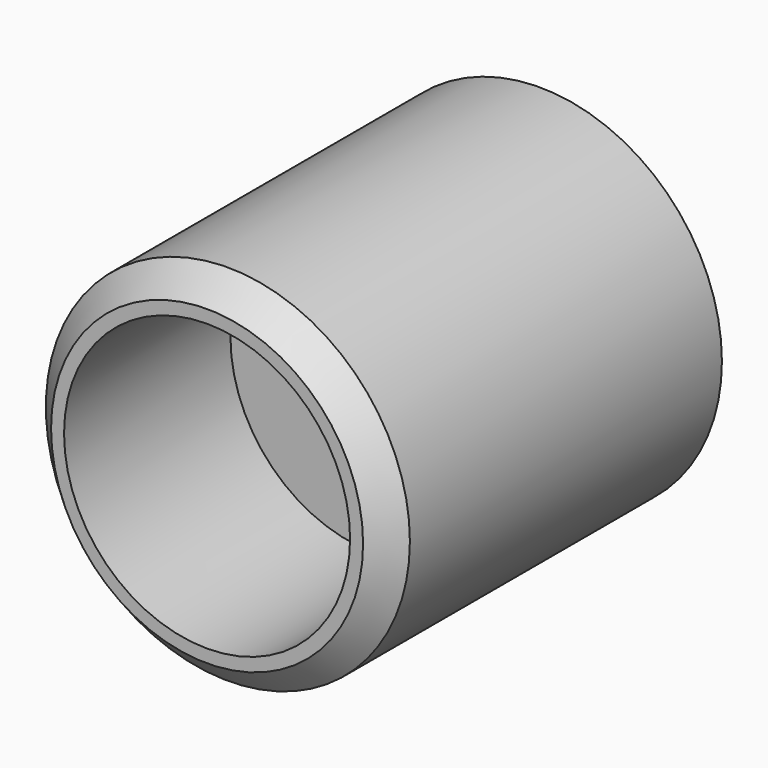
from build123d import *

# Parameters (mm, degrees)
F0_R     = 7
F0_R_2   = 2.5
F1_DEPTH = 16
F2_R     = 4
F3_DEPTH = 4
F4_SIZE  = 1
F5_R     = 5.5
F6_DEPTH = 8


with BuildPart() as f1:
    # F0 (on Front) → F1 (new body)
    with BuildSketch(Plane.XZ):
        Circle(F0_R)
        Circle(F0_R_2, mode=Mode.SUBTRACT)
    extrude(amount=F1_DEPTH)

    # F2 (on Front) → F3 (cut)
    with BuildSketch(Plane.XZ):
        Circle(F2_R)
    extrude(amount=F3_DEPTH, mode=Mode.SUBTRACT)

    # F4
    f4_edges = [f1.edges().sort_by_distance(p)[0] for p in [
        (-7, -16, 0),
    ]]
    chamfer(f4_edges, length=F4_SIZE)

    # F2 (on Front) + F5 (on face) → F6 (cut)
    with BuildSketch(Plane.XZ):
        Circle(F2_R)
    with BuildSketch(Plane.XZ.offset(16)):
        Circle(F5_R)
    extrude(amount=-F6_DEPTH, mode=Mode.SUBTRACT)


solid = f1.part
